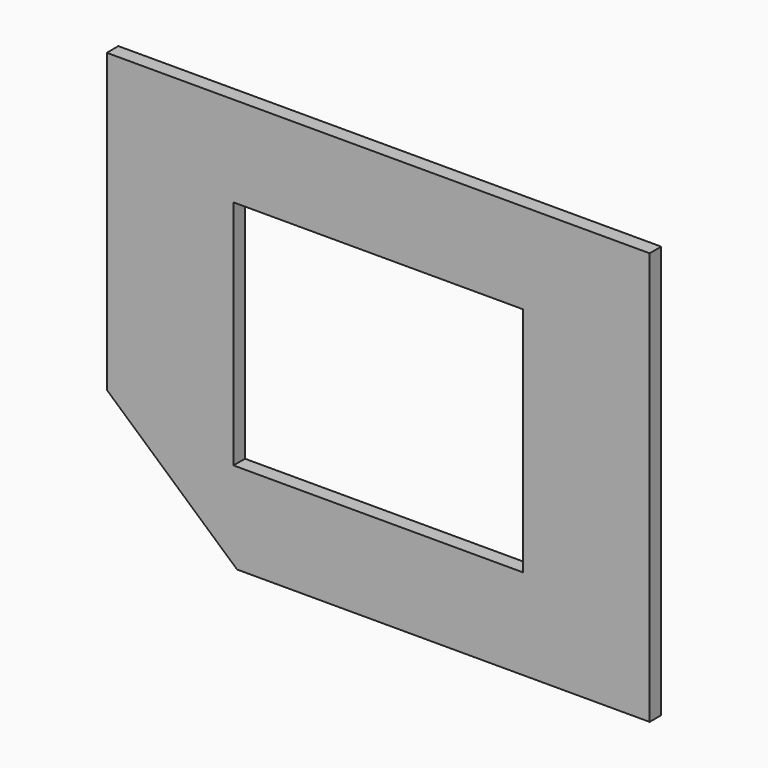
from build123d import *

# Parameters (mm, degrees)
F0_W     = 127
F0_H     = 101.6
F1_DEPTH = 6.35
F3_DEPTH = 25.4


with BuildPart() as f1:
    # F0 (on Front) → F1 (new body)
    with BuildSketch(Plane.XZ):
        Polygon((119.0625, -65.004698), (119.0625, 90.4875), (-119.0625, 90.4875), (-119.0625, -59.102433), (-119.0625, -90.4875), (-88.140514, -90.4875), (96.010204, -90.4875), (119.0625, -90.4875), align=None)
        Rectangle(F0_W, F0_H, mode=Mode.SUBTRACT)
    extrude(amount=F1_DEPTH)

    # F2 (on face) → F3 (cut)
    with BuildSketch(Plane.XZ.offset(6.35)):
        Polygon((-119.0625, -39.6875), (-119.0625, -90.4875), (-61.9125, -90.4875), align=None)
    extrude(amount=-F3_DEPTH, mode=Mode.SUBTRACT)


solid = f1.part
